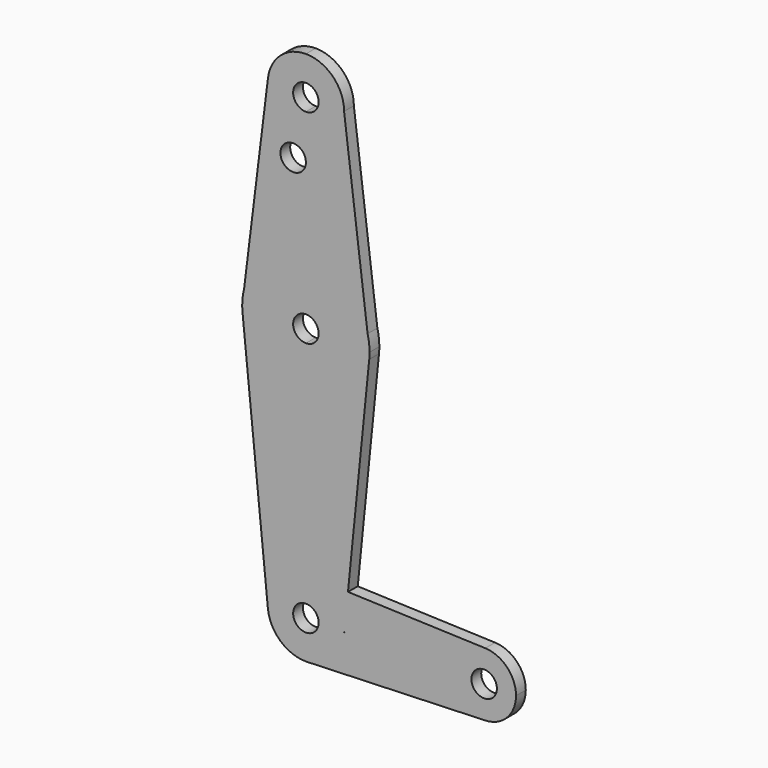
from build123d import *

# Parameters (mm, degrees)
F0_R     = 3.175
F1_DEPTH = 3.048


with BuildPart() as f1:
    # F0 (on Front) → F1 (new body)
    with BuildSketch(Plane.XZ):
        with BuildLine():
            ThreePointArc((-9.4530967593, 115.4681552373), (-7.1362561485, 107.991317635), (0, 104.775))
            ThreePointArc((0, 104.775), (6.7351920908, 107.5648079092), (9.525, 114.3))
            ThreePointArc((9.525, 114.3), (6.7351920908, 121.0351920908), (0, 123.825))
            ThreePointArc((0, 123.825), (-6.308682365, 121.4362561485), (-9.4530967593, 115.4681552373))
        make_face()
        with BuildLine():
            ThreePointArc((3.175, 114.3), (2.2450640303, 112.0549359697), (0, 111.125))
            ThreePointArc((0, 111.125), (-2.2450640303, 116.5450640303), (3.175, 114.3))
        make_face(mode=Mode.SUBTRACT)
        with BuildLine():
            ThreePointArc((9.525, 114.3), (6.7351920908, 107.5648079092), (0, 104.775))
            Line((0, 104.775), (0, 100.0252))
            Line((0, 100.0252), (0, 79.375))
            ThreePointArc((0, 79.375), (9.7463072395, 76.0309664508), (15.3865384615, 67.4076923077))
            Line((15.3865384615, 67.4076923077), (9.525, 114.3))
        make_face()
        with BuildLine():
            Line((0, 100.0252), (0, 104.775))
            ThreePointArc((0, 104.775), (-7.1362561485, 107.991317635), (-9.4530967593, 115.4681552373))
            Line((-9.4530967593, 115.4681552373), (-15.3974543628, 67.3644565138))
            ThreePointArc((-15.3974543628, 67.3644565138), (-9.76389722, 76.0172655192), (0, 79.375))
            Line((0, 79.375), (0, 100.0252))
        make_face()
        with Locations((-3.175, 100.0252)):
            Circle(F0_R, mode=Mode.SUBTRACT)
        with BuildLine():
            ThreePointArc((15.3865384615, 67.4076923077), (9.7463072395, 76.0309664508), (0, 79.375))
            Line((0, 79.375), (0, 66.675))
            ThreePointArc((0, 66.675), (2.2450640303, 65.7450640303), (3.175, 63.5))
            ThreePointArc((3.175, 63.5), (2.2450640303, 61.2549359697), (0, 60.325))
            Line((0, 60.325), (0, 47.625))
            ThreePointArc((0, 47.625), (10.6492737428, 51.7267849017), (15.7954255641, 61.9125))
            ThreePointArc((15.7954255641, 61.9125), (15.8550939106, 62.7052534459), (15.875, 63.5))
            Line((15.875, 63.5), (15.3865384615, 67.4076923077))
        make_face()
        with BuildLine():
            Line((0, 66.675), (0, 79.375))
            ThreePointArc((0, 79.375), (-9.76389722, 76.0172655192), (-15.3974543628, 67.3644565138))
            Line((-15.3974543628, 67.3644565138), (-15.875, 63.5))
            ThreePointArc((-15.875, 63.5), (-15.8550939106, 62.7052534459), (-15.7954255641, 61.9125))
            ThreePointArc((-15.7954255641, 61.9125), (-10.6492737428, 51.7267849017), (0, 47.625))
            Line((0, 47.625), (0, 60.325))
            ThreePointArc((0, 60.325), (-3.175, 63.5), (0, 66.675))
        make_face()
        with BuildLine():
            Line((-15.875, 63.5), (-15.3974543628, 67.3644565138))
            ThreePointArc((-15.3974543628, 67.3644565138), (-15.7551612656, 65.4469253955), (-15.875, 63.5))
        make_face()
        with BuildLine():
            ThreePointArc((15.875, 63.5), (15.7524112928, 65.4690514116), (15.3865384615, 67.4076923077))
            Line((15.3865384615, 67.4076923077), (15.875, 63.5))
        make_face()
        with BuildLine():
            ThreePointArc((0, 47.625), (-10.6492737428, 51.7267849017), (-15.7954255641, 61.9125))
            Line((-15.7954255641, 61.9125), (-9.4772553384, -0.9525))
            ThreePointArc((-9.4772553384, -0.9525), (-9.5130563464, -0.4768479324), (-9.525, 0))
            ThreePointArc((-9.525, 0), (-6.7351920908, 6.7351920908), (0, 9.525))
            Line((0, 9.525), (0, 47.625))
        make_face()
        with BuildLine():
            Line((10.4932062399, 9.1560838367), (15.7954255641, 61.9125))
            ThreePointArc((15.7954255641, 61.9125), (10.6492737428, 51.7267849017), (0, 47.625))
            Line((0, 47.625), (0, 9.525))
            ThreePointArc((0, 9.525), (0.1701164197, 9.5234807399), (0.3401785714, 9.5189234444))
            Line((0.3401785714, 9.5189234444), (10.4932062399, 9.1560838367))
        make_face()
        with BuildLine():
            ThreePointArc((-9.525, 0), (-9.5130563464, -0.4768479324), (-9.4772553384, -0.9525))
            ThreePointArc((-9.4772553384, -0.9525), (-6.3895642457, -7.063929059), (0, -9.525))
            ThreePointArc((0, -9.525), (0.1701164197, -9.5234807399), (0.3401785714, -9.5189234444))
            ThreePointArc((0.3401785714, -9.5189234444), (6.5147068085, -6.948684782), (9.4772553384, -0.9525))
            ThreePointArc((9.4772553384, -0.9525), (9.5130563464, -0.4768479324), (9.525, 0))
            Line((9.525, 0), (3.175, 0))
            ThreePointArc((3.175, 0), (-2.2450640303, -2.2450640303), (0, 3.175))
            Line((0, 3.175), (0, 9.525))
            ThreePointArc((0, 9.525), (-6.7351920908, 6.7351920908), (-9.525, 0))
        make_face()
        with BuildLine():
            Line((9.5729851903, 0), (10.4932062399, 9.1560838367))
            Line((10.4932062399, 9.1560838367), (0.3401785714, 9.5189234444))
            ThreePointArc((0.3401785714, 9.5189234444), (6.8544082857, 6.6138273378), (9.525, 0))
            Line((9.525, 0), (9.5729851903, 0))
        make_face()
        with BuildLine():
            Line((44.7334821429, 7.9324362036), (10.4932062399, 9.1560838367))
            Line((10.4932062399, 9.1560838367), (9.5729851903, 0))
            Line((9.5729851903, 0), (36.5125, 0))
            ThreePointArc((36.5125, 0), (38.8373399243, 5.6126600757), (44.45, 7.9375))
            ThreePointArc((44.45, 7.9375), (44.5917636831, 7.9362339499), (44.7334821429, 7.9324362036))
        make_face()
        with BuildLine():
            ThreePointArc((52.3875, 0), (50.1620069047, 5.5115227815), (44.7334821429, 7.9324362036))
            ThreePointArc((44.7334821429, 7.9324362036), (44.5917636831, 7.9362339499), (44.45, 7.9375))
            ThreePointArc((44.45, 7.9375), (38.8373399243, 5.6126600757), (36.5125, 0))
            ThreePointArc((36.5125, 0), (38.8373399243, -5.6126600757), (44.45, -7.9375))
            ThreePointArc((44.45, -7.9375), (44.5917636831, -7.9362339499), (44.7334821429, -7.9324362036))
            ThreePointArc((44.7334821429, -7.9324362036), (50.1620069047, -5.5115227815), (52.3875, 0))
        make_face()
        with BuildLine():
            ThreePointArc((47.625, 0), (44.45, -3.175), (41.275, 0))
            ThreePointArc((41.275, 0), (44.45, 3.175), (47.625, 0))
        make_face(mode=Mode.SUBTRACT)
        with BuildLine():
            Line((36.5125, 0), (9.5729851903, 0))
            Line((9.5729851903, 0), (9.4772553384, -0.9525))
            ThreePointArc((9.4772553384, -0.9525), (6.5147068085, -6.948684782), (0.3401785714, -9.5189234444))
            Line((0.3401785714, -9.5189234444), (44.7334821429, -7.9324362036))
            ThreePointArc((44.7334821429, -7.9324362036), (44.5917636831, -7.9362339499), (44.45, -7.9375))
            ThreePointArc((44.45, -7.9375), (38.8373399243, -5.6126600757), (36.5125, 0))
        make_face()
        with BuildLine():
            ThreePointArc((0.3401785714, 9.5189234444), (0.1701164197, 9.5234807399), (0, 9.525))
            Line((0, 9.525), (0, 3.175))
            ThreePointArc((0, 3.175), (2.2450640303, 2.2450640303), (3.175, 0))
            Line((3.175, 0), (9.525, 0))
            ThreePointArc((9.525, 0), (6.8544082857, 6.6138273378), (0.3401785714, 9.5189234444))
        make_face()
    extrude(amount=F1_DEPTH)


solid = f1.part
